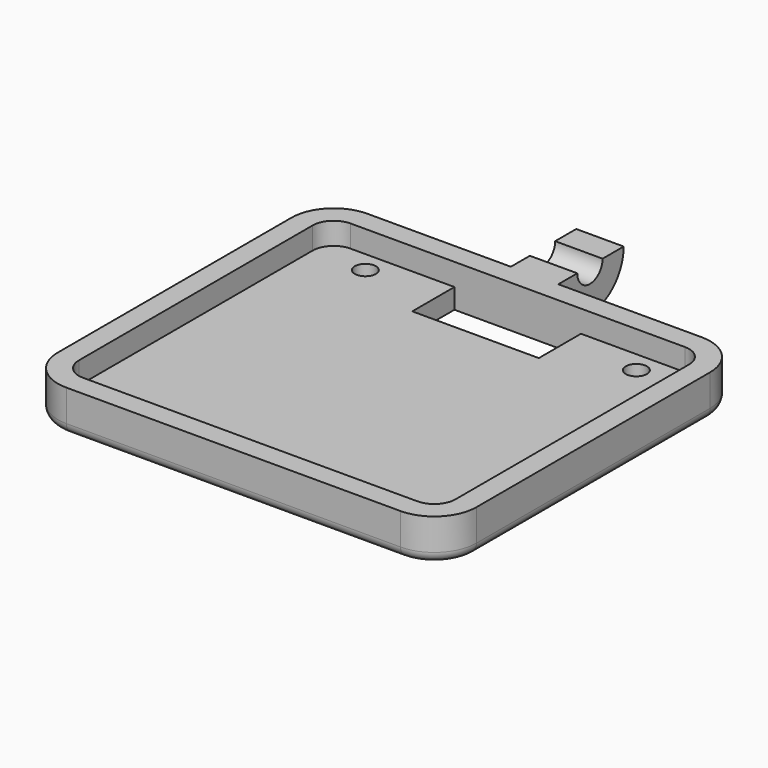
from build123d import *

# Parameters (mm, degrees)
F1_DEPTH      = 4
F3_DEPTH      = 2.1
F5_DEPTH      = 2.25
F5_DEPTH_BACK = 2.25
F6_W          = 12
F6_H          = 5
F6_R          = 1
F7_DEPTH      = 25
F8_R          = 1


with BuildPart() as f1:
    # F0 (on Top) → F1 (new body)
    with BuildSketch(Plane.XY):
        with BuildLine():
            Line((19.85, -13.85), (19.85, 13.85))
            ThreePointArc((19.85, 13.85), (18.678427, 16.678427), (15.85, 17.85))
            Line((15.85, 17.85), (-15.85, 17.85))
            ThreePointArc((-15.85, 17.85), (-18.678427, 16.678427), (-19.85, 13.85))
            Line((-19.85, 13.85), (-19.85, -13.85))
            ThreePointArc((-19.85, -13.85), (-18.678427, -16.678427), (-15.85, -17.85))
            Line((-15.85, -17.85), (15.85, -17.85))
            ThreePointArc((15.85, -17.85), (18.678427, -16.678427), (19.85, -13.85))
        make_face()
    extrude(amount=F1_DEPTH)

    # F2 (on face) → F3 (cut)
    with BuildSketch(Plane.XY.offset(4)):
        with BuildLine():
            ThreePointArc((17.85, 13.85), (17.264214, 15.264214), (15.85, 15.85))
            Line((15.85, 15.85), (-15.85, 15.85))
            ThreePointArc((-15.85, 15.85), (-17.264214, 15.264214), (-17.85, 13.85))
            Line((-17.85, 13.85), (-17.85, -13.85))
            ThreePointArc((-17.85, -13.85), (-17.264214, -15.264214), (-15.85, -15.85))
            Line((-15.85, -15.85), (15.85, -15.85))
            ThreePointArc((15.85, -15.85), (17.264214, -15.264214), (17.85, -13.85))
            Line((17.85, -13.85), (17.85, 13.85))
        make_face()
    extrude(amount=-F3_DEPTH, mode=Mode.SUBTRACT)

    # F4 (on Right) → F5 (join, two sides)
    with BuildSketch(Plane.YZ) as f5_sk:
        with BuildLine():
            Line((17.85, 0), (21.6, 0))
            ThreePointArc((21.6, 0), (24.428427, 1.171573), (25.6, 4))
            Line((25.6, 4), (23.1, 4))
            ThreePointArc((23.1, 4), (21.6, 2.5), (20.1, 4))
            Line((20.1, 4), (17.85, 4))
            Line((17.85, 4), (17.85, 0))
        make_face()
        Polygon((15.85, 0), (17.85, 0), (17.85, 4), (17.6, 4), (15.85, 4), align=None)
    extrude(amount=F5_DEPTH)
    extrude(f5_sk.sketch, amount=-F5_DEPTH_BACK)

    # F6 (on face) → F7 (cut)
    with BuildSketch(Plane.XY.offset(1.9)):
        with Locations((0, 13.35)):
            Rectangle(F6_W, F6_H)
        with Locations((-12.85, 13.85)):
            Circle(F6_R)
        with Locations((12.85, 13.85)):
            Circle(F6_R)
        with Locations((-12.85, -13.85)):
            Circle(F6_R)
        with Locations((12.85, -13.85)):
            Circle(F6_R)
    extrude(amount=-F7_DEPTH, mode=Mode.SUBTRACT)

    # F8
    f8_edges = [f1.edges().sort_by_distance(p)[0] for p in [
        (-19.85, 0, 0),
    ]]
    fillet(f8_edges, radius=F8_R)


solid = f1.part
